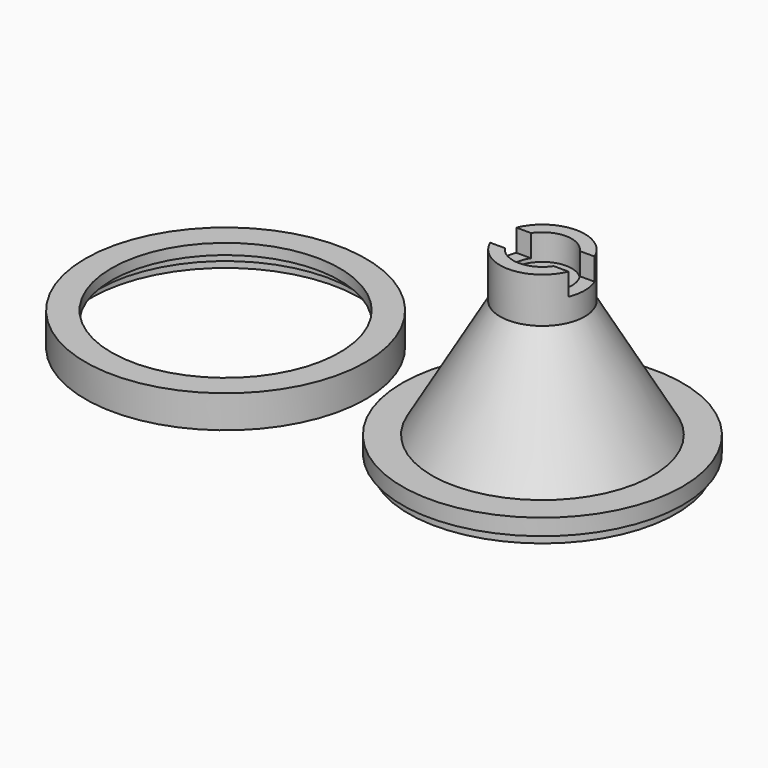
from build123d import *

# Parameters (mm, degrees)
F2_W     = 5
F2_H     = 8
F3_DEPTH = 7.5


with BuildPart() as f1:
    # F0 (on Front) → F1 (revolve)
    with BuildSketch(Plane.XZ):
        Polygon((-20.5, 0), (-19.5, 0), (-19.5, 1.5), (-15.678715, 2.173796), (-2.5, 25), (-4.5, 25), (-4.5, 29), (-6.5, 29), (-6.5, 22.071797), (-16.933757, 4), (-21.5, 4), (-21.5, 1.5), (-20.5, 1.5), align=None)
    revolve(axis=Axis((0, 0, 15.472903), (0, 0, 1)))

    # F2 (on Right) → F3 (cut, symmetric)
    with BuildSketch(Plane.YZ):
        with Locations((0, 29.6)):
            Rectangle(F2_W, F2_H)
    extrude(amount=F3_DEPTH, both=True, mode=Mode.SUBTRACT)


with BuildPart() as f5:
    # F4 (on Front) → F5 (revolve)
    with BuildSketch(Plane.XZ):
        Polygon((-66.077634, 5), (-70.077634, 5), (-70.077634, 0), (-69.177634, 0), (-69.177634, 1.5), (-68.077634, 1.5), (-68.077634, 3), (-66.077634, 3.352654), align=None)
    revolve(axis=Axis((-48.577634, 0, 5.398479), (0, 0, 1)))


solid = Compound([f1.part, f5.part])
